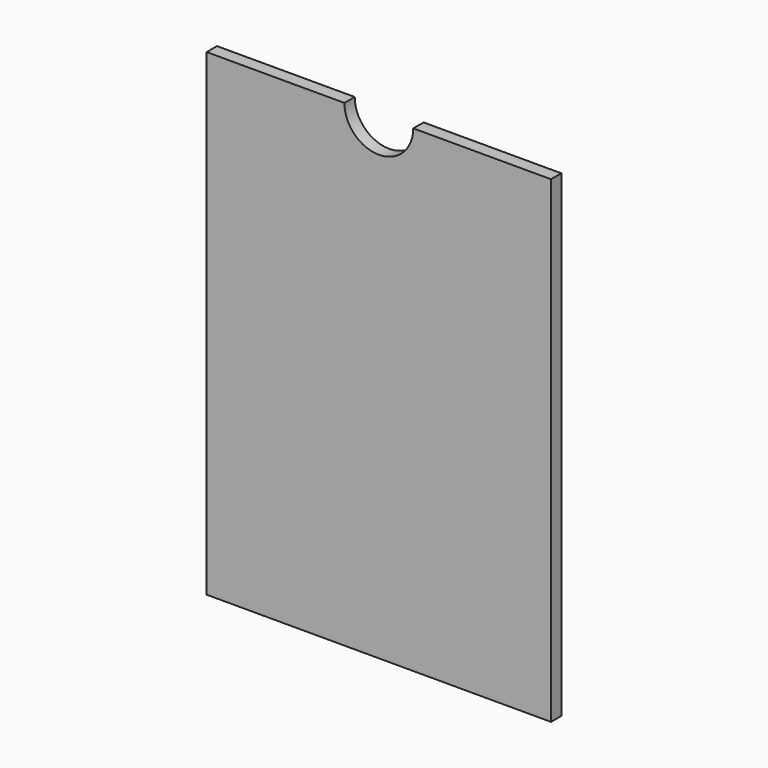
from build123d import *

# Parameters (mm, degrees)
F0_W     = 508
F0_H     = 1035.05
F1_DEPTH = 19.05
F3_DEPTH = 25.4
F4_DEPTH = 330.2


with BuildPart() as f1:
    # F0 (on Front) → F1 (new body)
    with BuildSketch(Plane.XZ):
        Rectangle(F0_W, F0_H)
    extrude(amount=F1_DEPTH)

    # F2 (on face) → F3 (cut)
    with BuildSketch(Plane.XZ.offset(19.05)):
        with BuildLine():
            ThreePointArc((-50.8, 517.525), (0, 466.725), (50.8, 517.525))
            Line((50.8, 517.525), (-50.8, 517.525))
        make_face()
    extrude(amount=-F3_DEPTH, mode=Mode.SUBTRACT)

    # F4 (cut): a face of the model
    f4_faces = [f1.faces().sort_by_distance(p)[0] for p in [
        (0, -9.525, -517.525),
    ]]
    extrude(f4_faces, amount=-F4_DEPTH, mode=Mode.SUBTRACT)


solid = f1.part
